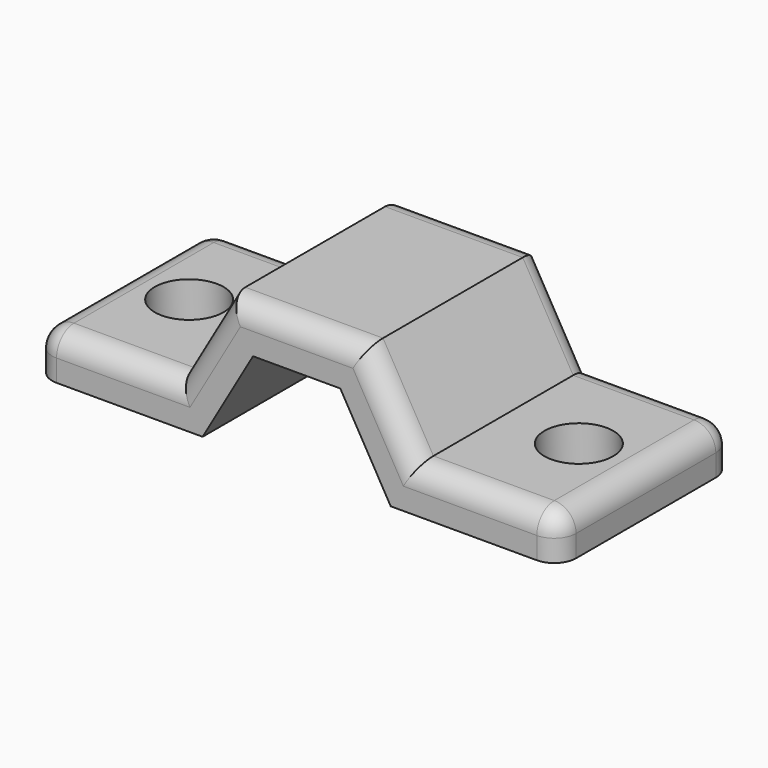
from build123d import *

# Parameters (mm, degrees)
F4_R     = 2.5
F5_DEPTH = 3.175
F6_R     = 1.5875


with BuildPart() as f3:
    # F3: sweep along a path in F0
    with BuildLine(Plane.XZ) as f3_path:
        Line((-19.05, 0), (-6.8411742094, 0))
        Line((-6.8411742094, 0), (-3.175, 6.35))
        Line((-3.175, 6.35), (0, 6.35))
        Line((0, 6.35), (3.175, 6.35))
        Line((3.175, 6.35), (6.8411742094, 0))
        Line((6.8411742094, 0), (19.05, 0))
    # F2 (on line) → F3 (sweep)
    with BuildSketch(Plane(origin=(-19.05, 0, 0), x_dir=(0, -1, 0), z_dir=(-1, 0, 0))):
        with BuildLine():
            Line((-7.9375, 0), (7.9375, 0))
            Line((7.9375, 0), (7.9375, 1.5875))
            ThreePointArc((7.9375, 1.5875), (7.4725320151, 2.7100320151), (6.35, 3.175))
            Line((6.35, 3.175), (-6.35, 3.175))
            ThreePointArc((-6.35, 3.175), (-7.4725320151, 2.7100320151), (-7.9375, 1.5875))
            Line((-7.9375, 1.5875), (-7.9375, 0))
        make_face()
    sweep(path=f3_path.line, transition=Transition.RIGHT)

    # F4 (on face) → F5 (cut, through all)
    with BuildSketch(Plane.XY.offset(3.175)):
        with Locations((-14.16875, 0)):
            Circle(F4_R)
        with Locations((14.16875, 0)):
            Circle(F4_R)
    extrude(amount=-F5_DEPTH, mode=Mode.SUBTRACT)

    # F6
    f6_edges = [f3.edges().sort_by_distance(p)[0] for p in [
        (-19.05, 0, 3.175),
        (19.05, 0, 3.175),
    ]]
    fillet(f6_edges, radius=F6_R)


solid = f3.part
